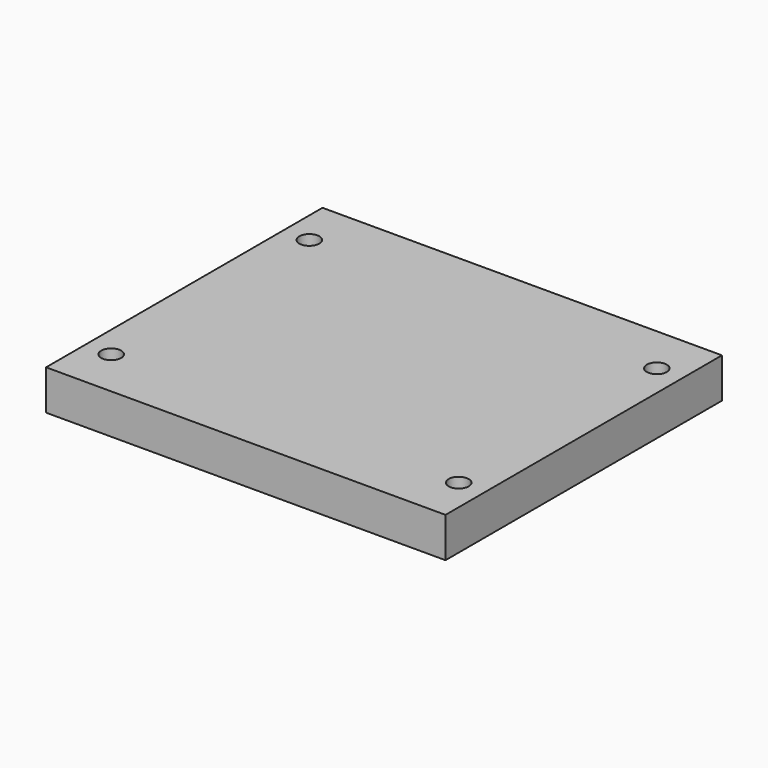
from build123d import *

# Parameters (mm, degrees)
SKETCH_W     = 100
SKETCH_H     = 86.5
PAD_DEPTH    = 10
SKETCH001_R  = 2.5
POCKET_DEPTH = 10


with BuildPart() as part:
    # Sketch → Pad (new body)
    with BuildSketch(Plane.XY):
        Rectangle(SKETCH_W, SKETCH_H)
    extrude(amount=PAD_DEPTH)

    # Sketch001 (on DatumPlane) → Pocket (cut)
    with BuildSketch(Plane.XY.offset(10)):
        with Locations((-43.5, 31)):
            Circle(SKETCH001_R)
        with Locations((43.5, 31)):
            Circle(SKETCH001_R)
        with Locations((43.5, -31)):
            Circle(SKETCH001_R)
        with Locations((-43.5, -31)):
            Circle(SKETCH001_R)
    extrude(amount=-POCKET_DEPTH, mode=Mode.SUBTRACT)


solid = part.part
